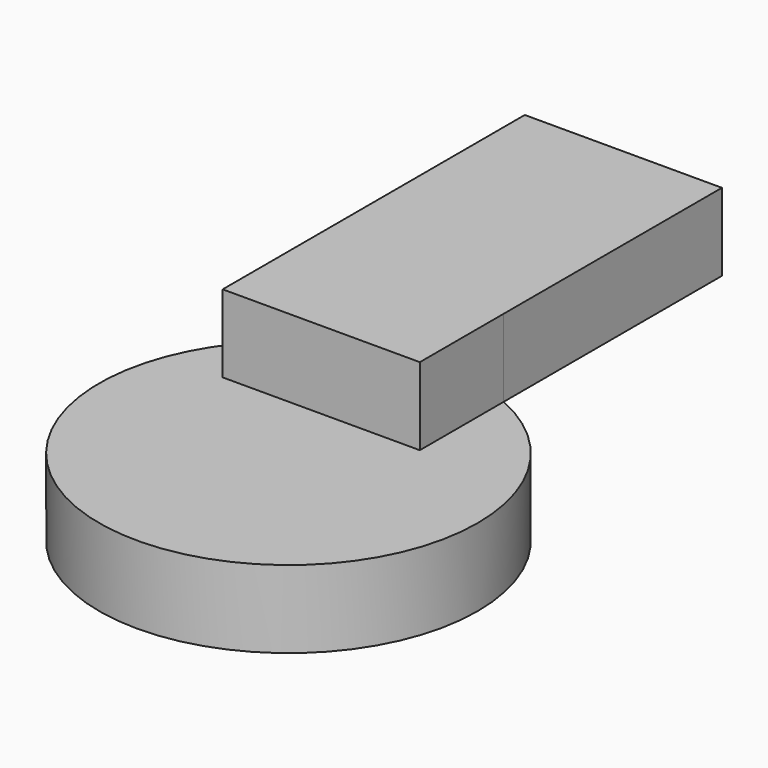
from build123d import *

# Parameters (mm, degrees)
F0_R     = 62.005782
F1_DEPTH = 25.4
F2_W     = 64.590409
F2_H     = 123.714641
F3_DEPTH = 25.4


with BuildPart() as f1:
    # F0 (on Top) → F1 (new body)
    with BuildSketch(Plane.XY):
        with Locations((39.365541, -22.277974)):
            Circle(F0_R)
    extrude(amount=F1_DEPTH)

    # F2 (on face) → F3 (join)
    with BuildSketch(Plane.XY.offset(25.4)):
        with Locations((32.295204, 61.857321)):
            Rectangle(F2_W, F2_H)
        with BuildLine():
            Line((0, 123.714641), (0, 25.628927))
            ThreePointArc((0, 25.628927), (31.054749, 39.168326), (64.590409, 34.364969))
            Line((64.590409, 34.364969), (64.590409, 123.714641))
            Line((64.590409, 123.714641), (0, 123.714641))
        make_face()
    extrude(amount=F3_DEPTH)


solid = f1.part
